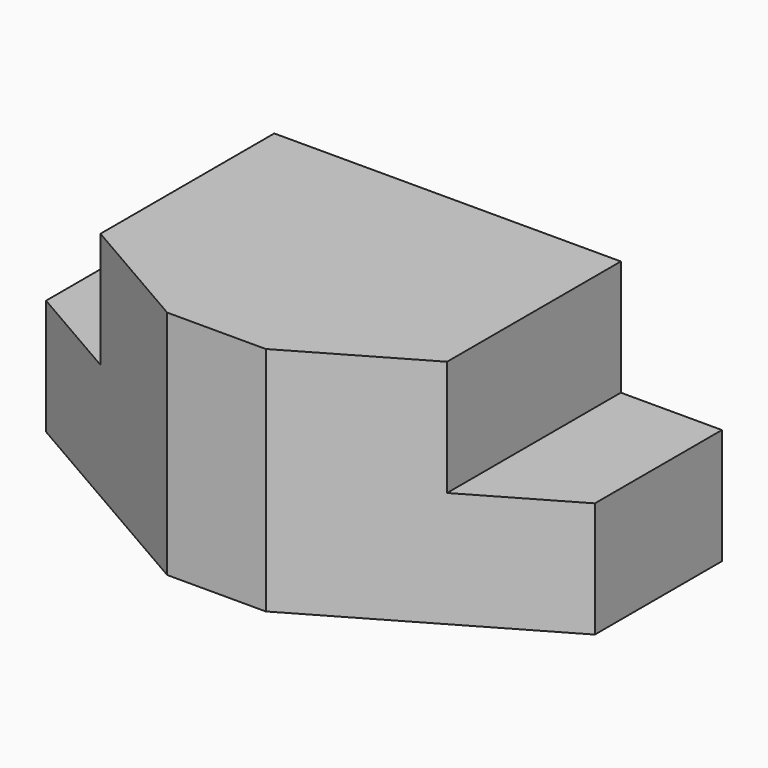
from build123d import *

# Parameters (mm, degrees)
F1_DEPTH = 50.8
F2_W     = 22.225
F2_H     = 25.4
F3_DEPTH = 50.8


with BuildPart() as f1:
    # F0 (on Top) → F1 (new body)
    with BuildSketch(Plane.XY):
        Polygon((30.409715, 49.605134), (-90.240285, 49.605134), (-90.240285, 14.680134), (-40.746933, -13.894866), (-19.083637, -13.894866), (30.409715, 14.680134), align=None)
    extrude(amount=F1_DEPTH)

    # F2 (on face) → F3 (cut)
    with BuildSketch(Plane(origin=(0, 49.605134, 0), x_dir=(-1, 0, 0), z_dir=(0, 1, 0))):
        with Locations((-19.297215, 38.1)):
            Rectangle(F2_W, F2_H)
        with Locations((79.127785, 38.1)):
            Rectangle(F2_W, F2_H)
    extrude(amount=-F3_DEPTH, mode=Mode.SUBTRACT)


solid = f1.part
